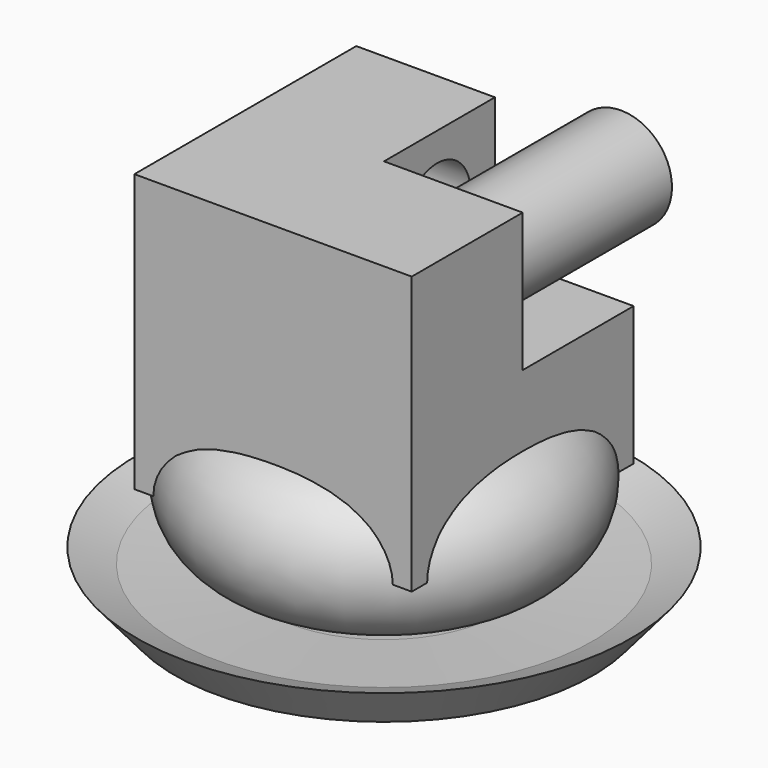
from build123d import *

# Parameters (mm, degrees)
F0_W          = 100
F0_H          = 100
F1_DEPTH      = 100
F2_W          = 100
F2_H          = 100
F3_DEPTH      = 50
F3_DEPTH_BACK = 50
F4_R          = 15
F5_DEPTH      = 125
F6_R          = 18.3620385168
F7_DEPTH      = 75
F8_R          = 26.4242982226


with BuildPart() as f1:
    # F0 (on Top) → F1 (new body)
    with BuildSketch(Plane.XY):
        Rectangle(F0_W, F0_H)
    extrude(amount=F1_DEPTH)

    # F2 (on face) → F3 (cut, two sides)
    with BuildSketch(Plane.XY.offset(100)) as f3_sk:
        with Locations((50, 50)):
            Rectangle(F2_W, F2_H)
    extrude(amount=F3_DEPTH, mode=Mode.SUBTRACT)
    extrude(f3_sk.sketch, amount=-F3_DEPTH_BACK, mode=Mode.SUBTRACT)

    # F4 (on face) → F5 (cut)
    with BuildSketch(Plane.YZ):
        with Locations((23.9470079541, 74.6991485357)):
            Circle(F4_R)
    extrude(amount=-F5_DEPTH, mode=Mode.SUBTRACT)

    # F6 (on face) → F7 (join)
    with BuildSketch(Plane(origin=(0, 0, 0), x_dir=(-1, 0, 0), z_dir=(0, 1, 0))):
        with Locations((-25.4512839019, 75.6017118692)):
            Circle(F6_R)
    extrude(amount=F7_DEPTH)


with BuildPart() as f9:
    # F8 (on Right) → F9 (revolve)
    with BuildSketch(Plane.YZ):
        with Locations((39.6505184472, 0)):
            Circle(F8_R)
    revolve(axis=Axis((0, 0, 0.3794282675), (0, 0, 1)))


with BuildPart() as f10:
    # F8 (on Right) → F10 (revolve)
    with BuildSketch(Plane.YZ):
        with Locations((39.6505184472, 0)):
            Circle(F8_R)
    revolve(axis=Axis((0, 0, 0.3794282675), (0, 0, 1)))


with BuildPart() as f10b:
    # F8 (on Right) → F10, piece 2 (revolve)
    with BuildSketch(Plane.YZ):
        Polygon((41.7543044296, -30.0912956885), (0, -33.0104827881), (0, -44.3934090436), (75.3506447812, -38.7019440532), (89.166238904, -22.3864205182), (75.3506447812, -27.7424599293), align=None)
    revolve(axis=Axis((0, 0, 0.3794282675), (0, 0, 1)))


solid = Compound([f1.part, f9.part, f10.part, f10b.part])
